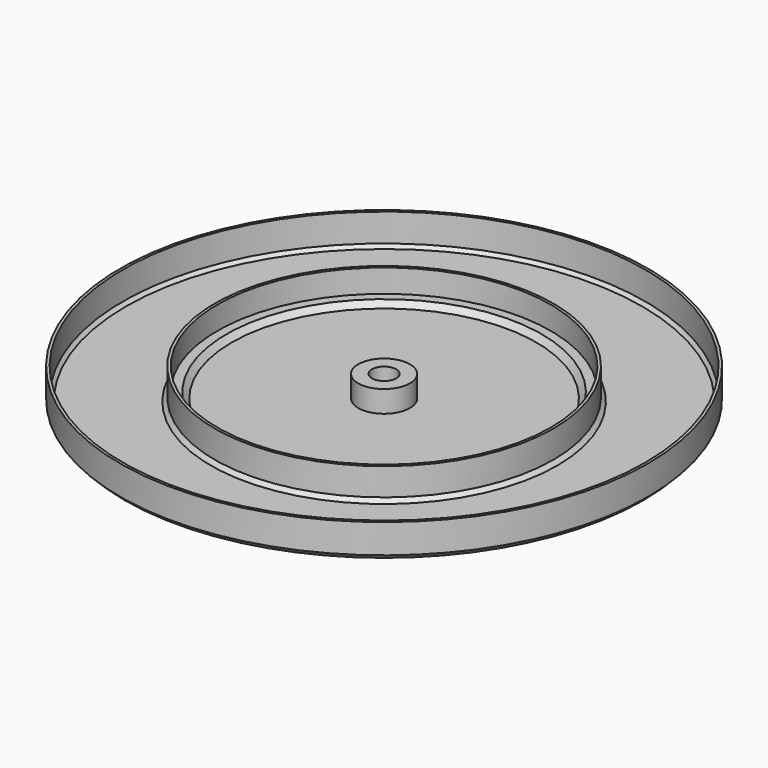
from build123d import *


with BuildPart() as part:
    # Sketch → Revolution (revolve)
    with BuildSketch(Plane.XZ):
        Polygon((4.5, 10), (4.5, 0), (56.757359, 0), (58.757359, 2), (61.242641, 2), (63.242641, 0), (95.232233, 0), (97, 1.767767), (97, 12.5), (96, 12.5), (96, 2.181981), (94.818019, 1), (63.656854, 1), (62.242641, 2.414214), (62.242641, 12.5), (61.242641, 12.5), (61.242641, 4), (57.928932, 4), (55.928932, 2), (9.5, 2), (9.5, 10), align=None)
    revolve(axis=Axis((0, 0, 0), (0, 0, 1)))


solid = part.part
